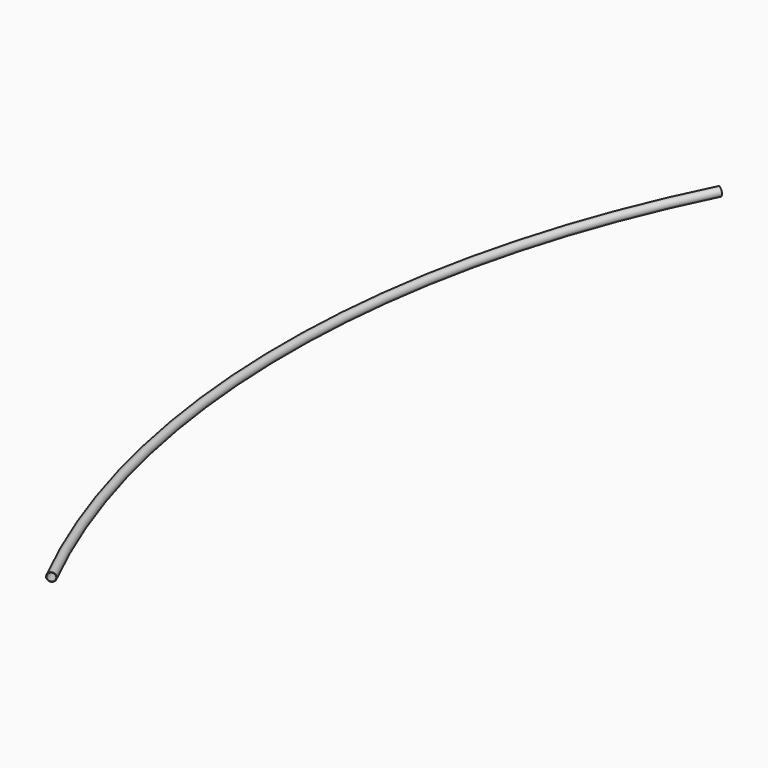
from build123d import *

# Parameters (mm, degrees)
F0_R          = 30.1625
F0_R_2        = 27.3945
F1_ANGLE_BACK = 26.585
F1_ANGLE      = 53.17


with BuildPart() as f1:
    # F0 (on Front) → F1 (revolve)
    with BuildSketch(Plane.XZ, mode=Mode.PRIVATE) as f1_sk:
        Circle(F0_R)
        Circle(F0_R_2, mode=Mode.SUBTRACT)
    revolve(f1_sk.sketch.rotate(Axis((6573, 0, -50), (0, 0, -1)), -F1_ANGLE_BACK), axis=Axis((6573, 0, -50), (0, 0, -1)), revolution_arc=F1_ANGLE)


solid = f1.part
